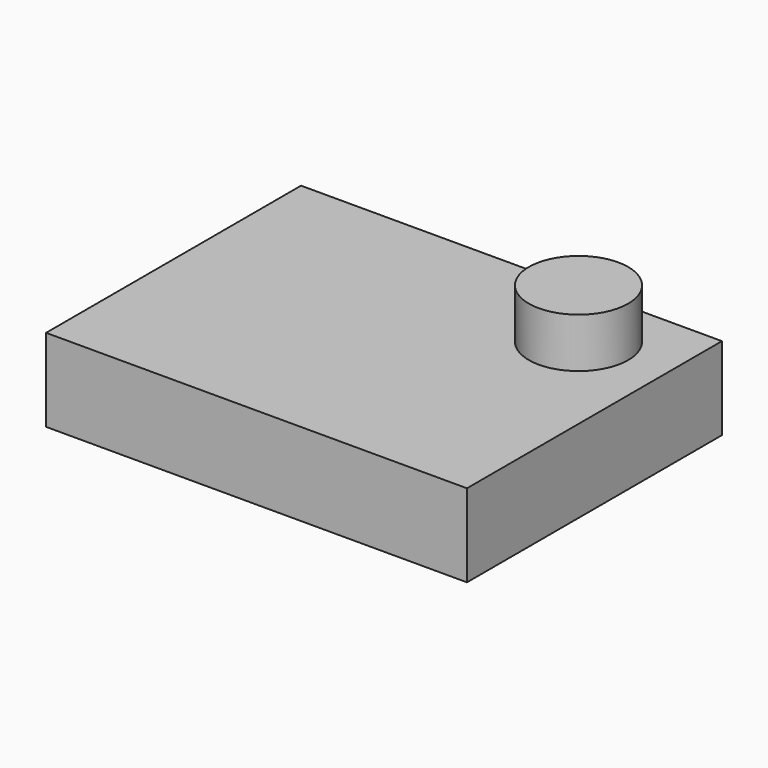
from build123d import *

# Parameters (mm, degrees)
F0_W     = 127.049602
F0_H     = 96.196726
F0_R     = 6.5
F1_DEPTH = 25
F2_R     = 15
F3_DEPTH = 15


with BuildPart() as f1:
    # F0 (on Top) → F1 (new body)
    with BuildSketch(Plane.XY):
        with Locations((27.48191, 15.578337)):
            Rectangle(F0_W, F0_H)
        with Locations((64.810269, 42.320151)):
            Circle(F0_R, mode=Mode.SUBTRACT)
    extrude(amount=F1_DEPTH)


with BuildPart() as f3:
    # F2 (on face) → F3 (new body)
    with BuildSketch(Plane.XY.offset(25)):
        with Locations((64.810269, 42.320151)):
            Circle(F2_R)
    extrude(amount=F3_DEPTH)


solid = Compound([f1.part, f3.part])
